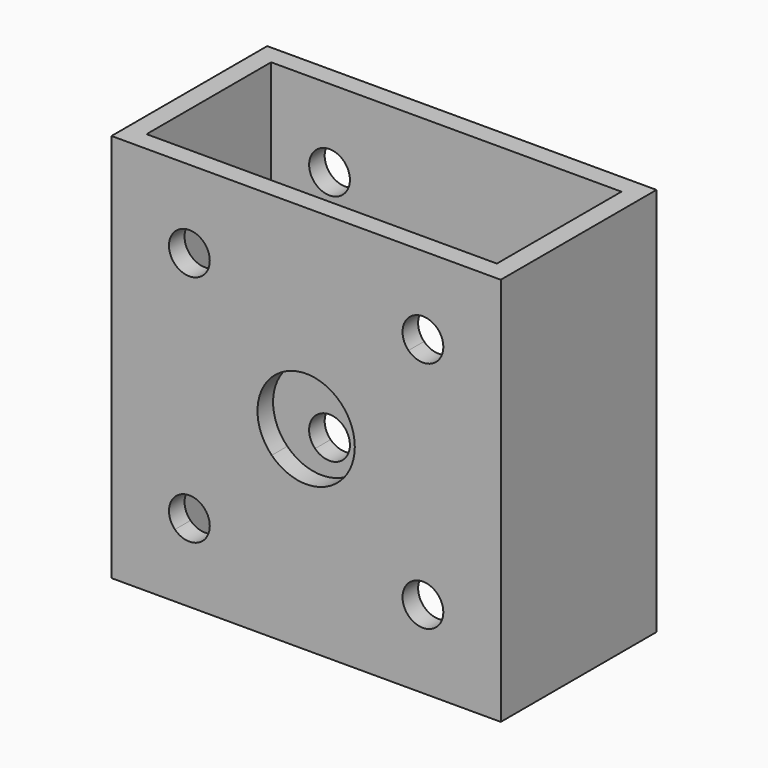
from build123d import *

# Parameters (mm, degrees)
F0_W     = 2000
F0_H     = 1000
F0_W_2   = 1800
F0_H_2   = 800
F1_DEPTH = 2000
F3_DEPTH = 2225.647926
F4_DEPTH = 1010.152698


with BuildPart() as f1:
    # F0 (on Top) → F1 (new body)
    with BuildSketch(Plane.XY):
        Rectangle(F0_W, F0_H)
        Rectangle(F0_W_2, F0_H_2, mode=Mode.SUBTRACT)
    extrude(amount=F1_DEPTH)

    # F2 (on face) → F3 (cut)
    with BuildSketch(Plane.XZ.offset(500)):
        with BuildLine():
            ThreePointArc((-495.205782, 1600.000029), (-559.896999, 1696.817267), (-674.100717, 1674.100717))
            Line((-674.100717, 1674.100717), (-525.899312, 1525.899312))
            ThreePointArc((-525.899312, 1525.899312), (-503.182771, 1559.897009), (-495.205782, 1600.000029))
        make_face()
        with BuildLine():
            ThreePointArc((674.100702, 1674.100702), (525.899298, 1674.100702), (525.899298, 1525.899298))
            Line((525.899298, 1525.899298), (674.100702, 1674.100702))
        make_face()
        with BuildLine():
            Line((674.100702, 1674.100702), (525.899298, 1525.899298))
            ThreePointArc((525.899298, 1525.899298), (640.103011, 1503.182767), (704.794218, 1600))
            ThreePointArc((704.794218, 1600), (696.817233, 1640.103011), (674.100702, 1674.100702))
        make_face()
        with BuildLine():
            ThreePointArc((704.794218, 400), (640.103011, 496.817233), (525.899298, 474.100702))
            Line((525.899298, 474.100702), (674.100702, 325.899298))
            ThreePointArc((674.100702, 325.899298), (696.817233, 359.896989), (704.794218, 400))
        make_face()
        with BuildLine():
            Line((674.100702, 325.899298), (525.899298, 474.100702))
            ThreePointArc((525.899298, 474.100702), (525.899298, 325.899298), (674.100702, 325.899298))
        make_face()
        with BuildLine():
            ThreePointArc((-495.205782, 400.000029), (-503.182763, 440.103031), (-525.899283, 474.100717))
            Line((-525.899283, 474.100717), (-674.100688, 325.899312))
            ThreePointArc((-674.100688, 325.899312), (-559.896979, 303.1828), (-495.205782, 400.000029))
        make_face()
        with BuildLine():
            Line((-674.100688, 325.899312), (-525.899283, 474.100717))
            ThreePointArc((-525.899283, 474.100717), (-674.100702, 474.100732), (-674.100688, 325.899312))
        make_face()
        with BuildLine():
            ThreePointArc((176.776695, 1176.776695), (0, 1250), (-176.776695, 1176.776695))
            Line((-176.776695, 1176.776695), (0, 1000))
            Line((0, 1000), (176.776695, 1176.776695))
        make_face()
        with BuildLine():
            Line((0, 1000), (-176.776695, 1176.776695))
            ThreePointArc((-176.776695, 1176.776695), (-250, 1000), (-176.776695, 823.223305))
            Line((-176.776695, 823.223305), (0, 1000))
        make_face()
        with BuildLine():
            Line((-525.899312, 1525.899312), (-674.100717, 1674.100717))
            ThreePointArc((-674.100717, 1674.100717), (-674.100702, 1525.899327), (-525.899312, 1525.899312))
        make_face()
        with BuildLine():
            Line((176.776695, 1176.776695), (0, 1000))
            Line((0, 1000), (176.776695, 823.223305))
            ThreePointArc((176.776695, 823.223305), (230.969883, 904.329142), (250, 1000))
            ThreePointArc((250, 1000), (230.969883, 1095.670858), (176.776695, 1176.776695))
        make_face()
        with BuildLine():
            Line((176.776695, 823.223305), (0, 1000))
            Line((0, 1000), (-176.776695, 823.223305))
            ThreePointArc((-176.776695, 823.223305), (0, 750), (176.776695, 823.223305))
        make_face()
    extrude(amount=-F3_DEPTH, mode=Mode.SUBTRACT)

    # F2 (on face) → F4 (cut)
    with BuildSketch(Plane.XZ.offset(500)):
        with BuildLine():
            ThreePointArc((-495.205782, 1600.000029), (-559.896999, 1696.817267), (-674.100717, 1674.100717))
            Line((-674.100717, 1674.100717), (-525.899312, 1525.899312))
            ThreePointArc((-525.899312, 1525.899312), (-503.182771, 1559.897009), (-495.205782, 1600.000029))
        make_face()
        with BuildLine():
            ThreePointArc((674.100702, 1674.100702), (525.899298, 1674.100702), (525.899298, 1525.899298))
            Line((525.899298, 1525.899298), (674.100702, 1674.100702))
        make_face()
        with BuildLine():
            Line((674.100702, 1674.100702), (525.899298, 1525.899298))
            ThreePointArc((525.899298, 1525.899298), (640.103011, 1503.182767), (704.794218, 1600))
            ThreePointArc((704.794218, 1600), (696.817233, 1640.103011), (674.100702, 1674.100702))
        make_face()
        with BuildLine():
            ThreePointArc((704.794218, 400), (640.103011, 496.817233), (525.899298, 474.100702))
            Line((525.899298, 474.100702), (674.100702, 325.899298))
            ThreePointArc((674.100702, 325.899298), (696.817233, 359.896989), (704.794218, 400))
        make_face()
        with BuildLine():
            Line((674.100702, 325.899298), (525.899298, 474.100702))
            ThreePointArc((525.899298, 474.100702), (525.899298, 325.899298), (674.100702, 325.899298))
        make_face()
        with BuildLine():
            ThreePointArc((-495.205782, 400.000029), (-503.182763, 440.103031), (-525.899283, 474.100717))
            Line((-525.899283, 474.100717), (-674.100688, 325.899312))
            ThreePointArc((-674.100688, 325.899312), (-559.896979, 303.1828), (-495.205782, 400.000029))
        make_face()
        with BuildLine():
            Line((-674.100688, 325.899312), (-525.899283, 474.100717))
            ThreePointArc((-525.899283, 474.100717), (-674.100702, 474.100732), (-674.100688, 325.899312))
        make_face()
        with BuildLine():
            ThreePointArc((176.776695, 1176.776695), (0, 1250), (-176.776695, 1176.776695))
            Line((-176.776695, 1176.776695), (0, 1000))
            Line((0, 1000), (176.776695, 1176.776695))
        make_face()
        with BuildLine():
            Line((0, 1000), (-176.776695, 1176.776695))
            ThreePointArc((-176.776695, 1176.776695), (-250, 1000), (-176.776695, 823.223305))
            Line((-176.776695, 823.223305), (0, 1000))
        make_face()
        with BuildLine():
            Line((-525.899312, 1525.899312), (-674.100717, 1674.100717))
            ThreePointArc((-674.100717, 1674.100717), (-674.100702, 1525.899327), (-525.899312, 1525.899312))
        make_face()
        with BuildLine():
            Line((176.776695, 1176.776695), (0, 1000))
            Line((0, 1000), (176.776695, 823.223305))
            ThreePointArc((176.776695, 823.223305), (230.969883, 904.329142), (250, 1000))
            ThreePointArc((250, 1000), (230.969883, 1095.670858), (176.776695, 1176.776695))
        make_face()
        with BuildLine():
            Line((176.776695, 823.223305), (0, 1000))
            Line((0, 1000), (-176.776695, 823.223305))
            ThreePointArc((-176.776695, 823.223305), (0, 750), (176.776695, 823.223305))
        make_face()
    extrude(amount=-F4_DEPTH, mode=Mode.SUBTRACT)


solid = f1.part
